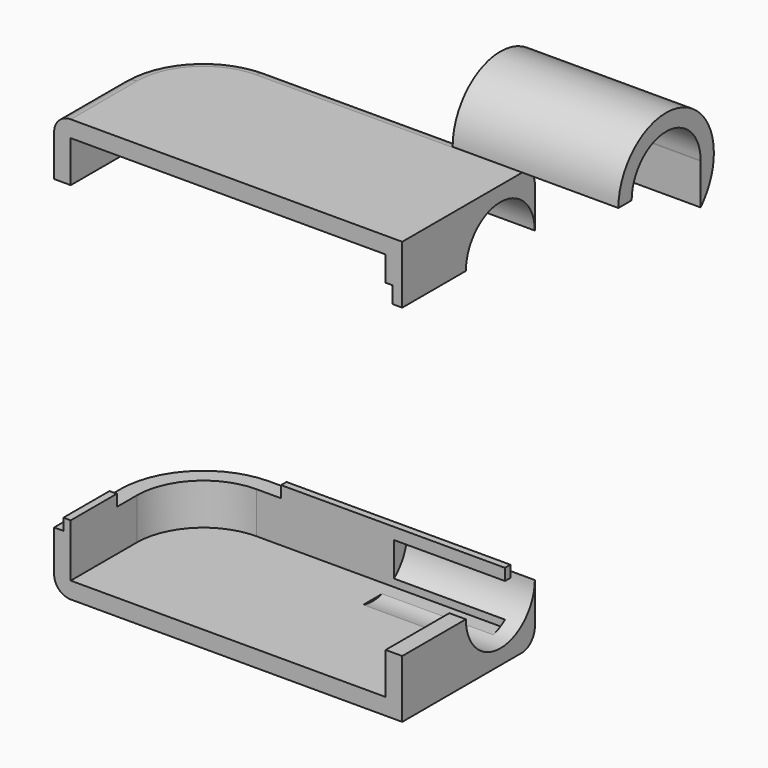
from build123d import *

# Parameters (mm, degrees)
F1_DEPTH  = 3.5
F3_DEPTH  = 2.5
F4_R      = 1
F5_R      = 2.6
F6_DEPTH  = 7.7
F8_DEPTH  = 10
F11_W     = 14
F11_H     = 0.4
F11_W_2   = 0.4
F11_H_2   = 4.5
F12_DEPTH = 1
F13_W     = 13.5103592183
F13_H     = 0.4096007202
F13_W_2   = 0.4431223497
F13_H_2   = 3.4768378943
F14_DEPTH = 0.7


with BuildPart() as f1:
    # F0 (on Top) → F1 (new body)
    with BuildSketch(Plane.XY):
        with BuildLine():
            Line((11.973214943, 8.69014601), (-4.026785057, 8.69014601))
            ThreePointArc((-4.026785057, 8.69014601), (-7.562318963, 7.2256799159), (-9.026785057, 3.69014601))
            Line((-9.026785057, 3.69014601), (-9.026785057, -1.30985399))
            Line((-9.026785057, -1.30985399), (11.973214943, -1.30985399))
            Line((11.973214943, -1.30985399), (11.973214943, 8.69014601))
        make_face()
    extrude(amount=F1_DEPTH)

    # F2 (on face) → F3 (cut)
    with BuildSketch(Plane.XY.offset(3.5)):
        with BuildLine():
            ThreePointArc((-4.026785057, 7.6901461702), (-6.8552122951, 6.518573248), (-8.0267852172, 3.69014601))
            Line((-8.0267852172, 3.69014601), (-8.0267852172, -1.30985399))
            Line((-8.0267852172, -1.30985399), (10.9732151031, -1.30985399))
            Line((10.9732151031, -1.30985399), (10.9732151031, 7.6901461702))
            Line((10.9732151031, 7.6901461702), (-4.026785057, 7.6901461702))
        make_face()
    extrude(amount=-F3_DEPTH, mode=Mode.SUBTRACT)

    # F4
    f4_edges = [f1.edges().sort_by_distance(p)[0] for p in [
        (3.973215, 8.690146, 0),
        (-7.562319, 7.22568, 0),
        (-9.026785, 1.190146, 0),
    ]]
    fillet(f4_edges, radius=F4_R)

    # F5 (on face) → F6 (cut)
    with BuildSketch(Plane.YZ.offset(11.973214943)):
        with Locations((6.0903108679, 3.5)):
            Circle(F5_R)
    extrude(amount=-F6_DEPTH, mode=Mode.SUBTRACT)


with BuildPart() as f8:
    # F7 (on face) → F8 (new body)
    with BuildSketch(Plane.YZ.offset(11.973214943)):
        with BuildLine():
            ThreePointArc((3.4903108679, 3.5), (6.0903108679, 6.1), (8.6903108679, 3.5))
            ThreePointArc((8.6903108679, 3.5), (8.6902696531, 3.4853604892), (8.69014601, 3.4707214426))
            Line((8.69014601, 3.4707214426), (8.69014601, 1.0098479496))
            ThreePointArc((8.69014601, 1.0098479496), (9.4309250712, 2.158248628), (9.6903108679, 3.5))
            ThreePointArc((9.6903108679, 3.5), (6.0903108679, 7.1), (2.4903108679, 3.5))
            Line((2.4903108679, 3.5), (3.4903108679, 3.5))
        make_face()
    extrude(amount=F8_DEPTH)


with BuildPart() as f9_1:
    # F9: instance of F1
    add(f1.part.mirror(Plane(origin=(2.150306667, 3.1200110159, 0), x_dir=(1, 0, 0), z_dir=(0, 0, -1))))

    # F11 (on face) → F12 (cut)
    with BuildSketch(Plane(origin=(0, 0, -3.5), x_dir=(1, 0, 0), z_dir=(0, 0, -1))):
        with Locations((3.9732151031, -7.8901461702)):
            Rectangle(F11_W, F11_H)
        with Locations((11.1732151031, -0.94014601)):
            Rectangle(F11_W_2, F11_H_2)
    extrude(amount=-F12_DEPTH, mode=Mode.SUBTRACT)


with BuildPart() as f1_1:
    # F10: moved
    add(f1.part.moved(Location((0, 0, 17.8))))

    # F13 (on face) → F14 (join)
    with BuildSketch(Plane.XY.offset(21.3)):
        with Locations((4.218035494, 7.8949465303)):
            Rectangle(F13_W, F13_H)
        with Locations((-8.2483463921, 0.4285649571)):
            Rectangle(F13_W_2, F13_H_2)
    extrude(amount=F14_DEPTH)


with BuildPart() as f1_2:
    # F15: moved
    add(f1_1.part.moved(Location((0, 0, -43.3))))


solid = Compound([f8.part, f9_1.part, f1_2.part])
